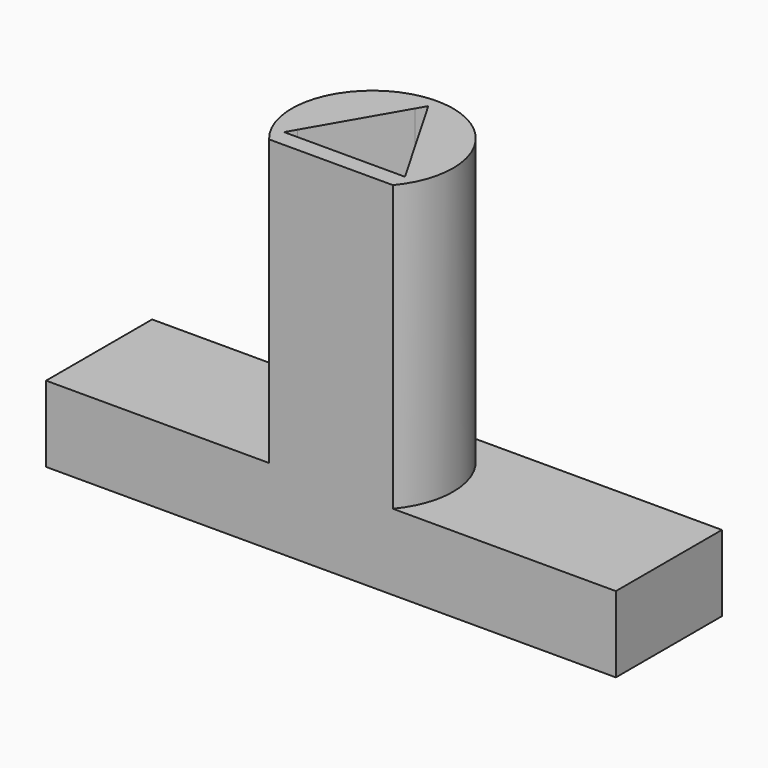
from build123d import *

# Parameters (mm, degrees)
F1_DEPTH = 20
F3_DEPTH = 10
F4_START = -10
F2_W     = 60
F2_H     = 13.958594691
F4_DEPTH = 8


with BuildPart() as f1:
    # F0 (on Top) → F1 (new body)
    with BuildSketch(Plane.XY):
        with BuildLine():
            ThreePointArc((-10.1912790055, 32.1777615839), (-15.0978885502, 29.0301175207), (-15.3705234986, 23.207046977))
            Line((-15.3705234986, 23.207046977), (-10.1912790055, 32.1777615839))
        make_face()
        with BuildLine():
            ThreePointArc((-3.2470355891, 25.8546910402), (-4.9020463007, 30.130483236), (-9.0044980948, 32.1777615839))
            Line((-9.0044980948, 32.1777615839), (-3.8252536017, 23.207046977))
            ThreePointArc((-3.8252536017, 23.207046977), (-3.3932737721, 24.4996675021), (-3.2470355891, 25.8546910402))
        make_face()
        with BuildLine():
            Line((-15.9639139539, 22.1792645596), (-15.3705234986, 23.207046977))
            ThreePointArc((-15.3705234986, 23.207046977), (-15.0978885502, 29.0301175207), (-10.1912790055, 32.1777615839))
            Line((-10.1912790055, 32.1777615839), (-9.5978885502, 33.2055440013))
            Line((-9.5978885502, 33.2055440013), (-9.0044980948, 32.1777615839))
            ThreePointArc((-9.0044980948, 32.1777615839), (-4.9020463007, 30.130483236), (-3.2470355891, 25.8546910402))
            ThreePointArc((-3.2470355891, 25.8546910402), (-3.3932737721, 24.4996675021), (-3.8252536017, 23.207046977))
            Line((-3.8252536017, 23.207046977), (-3.2318631464, 22.1792645596))
            Line((-3.2318631464, 22.1792645596), (-4.418644057, 22.1792645596))
            ThreePointArc((-4.418644057, 22.1792645596), (-5.2919075177, 21.1865157348), (-6.351802086, 20.3960963492))
            Line((-6.351802086, 20.3960963492), (-3.0822347841, 20.3960963492))
            ThreePointArc((-3.0822347841, 20.3960963492), (-1.6093637486, 22.9506470505), (-1.0978885502, 25.8546910402))
            ThreePointArc((-1.0978885502, 25.8546910402), (-12.5019325399, 33.8432158418), (-16.1135423163, 20.3960963492))
            Line((-16.1135423163, 20.3960963492), (-12.8439750143, 20.3960963492))
            ThreePointArc((-12.8439750143, 20.3960963492), (-13.9038695826, 21.1865157348), (-14.7771330433, 22.1792645596))
            Line((-14.7771330433, 22.1792645596), (-15.9639139539, 22.1792645596))
        make_face()
        with BuildLine():
            Line((-4.418644057, 22.1792645596), (-14.7771330433, 22.1792645596))
            ThreePointArc((-14.7771330433, 22.1792645596), (-13.9038695826, 21.1865157348), (-12.8439750143, 20.3960963492))
            Line((-12.8439750143, 20.3960963492), (-6.351802086, 20.3960963492))
            ThreePointArc((-6.351802086, 20.3960963492), (-5.2919075177, 21.1865157348), (-4.418644057, 22.1792645596))
        make_face()
    extrude(amount=F1_DEPTH)

    # F0 (on Top) → F3 (join)
    with BuildSketch(Plane.XY):
        with BuildLine():
            ThreePointArc((-10.1912790055, 32.1777615839), (-15.0978885502, 29.0301175207), (-15.3705234986, 23.207046977))
            Line((-15.3705234986, 23.207046977), (-10.1912790055, 32.1777615839))
        make_face()
        Polygon((-9.5978885502, 32.2055440013), (-15.0978885502, 22.6792645596), (-4.0978885502, 22.6792645596), align=None)
        with BuildLine():
            ThreePointArc((-10.1912790055, 32.1777615839), (-9.8949087916, 32.1985945947), (-9.5978885502, 32.2055440013))
            ThreePointArc((-9.5978885502, 32.2055440013), (-9.3008683088, 32.1985945947), (-9.0044980948, 32.1777615839))
            Line((-9.0044980948, 32.1777615839), (-9.5978885502, 33.2055440013))
            Line((-9.5978885502, 33.2055440013), (-10.1912790055, 32.1777615839))
        make_face()
        with BuildLine():
            ThreePointArc((-15.3705234986, 23.207046977), (-15.2403803083, 22.9399663374), (-15.0978885502, 22.6792645596))
            Line((-15.0978885502, 22.6792645596), (-9.5978885502, 32.2055440013))
            ThreePointArc((-9.5978885502, 32.2055440013), (-9.8949087916, 32.1985945947), (-10.1912790055, 32.1777615839))
            Line((-10.1912790055, 32.1777615839), (-15.3705234986, 23.207046977))
        make_face()
        with BuildLine():
            ThreePointArc((-14.7771330433, 22.1792645596), (-14.9433600669, 22.4255121884), (-15.0978885502, 22.6792645596))
            ThreePointArc((-15.0978885502, 22.6792645596), (-15.2403803083, 22.9399663374), (-15.3705234986, 23.207046977))
            Line((-15.3705234986, 23.207046977), (-15.9639139539, 22.1792645596))
            Line((-15.9639139539, 22.1792645596), (-14.7771330433, 22.1792645596))
        make_face()
        with BuildLine():
            Line((-15.9639139539, 22.1792645596), (-15.3705234986, 23.207046977))
            ThreePointArc((-15.3705234986, 23.207046977), (-15.0978885502, 29.0301175207), (-10.1912790055, 32.1777615839))
            Line((-10.1912790055, 32.1777615839), (-9.5978885502, 33.2055440013))
            Line((-9.5978885502, 33.2055440013), (-9.0044980948, 32.1777615839))
            ThreePointArc((-9.0044980948, 32.1777615839), (-4.9020463007, 30.130483236), (-3.2470355891, 25.8546910402))
            ThreePointArc((-3.2470355891, 25.8546910402), (-3.3932737721, 24.4996675021), (-3.8252536017, 23.207046977))
            Line((-3.8252536017, 23.207046977), (-3.2318631464, 22.1792645596))
            Line((-3.2318631464, 22.1792645596), (-4.418644057, 22.1792645596))
            ThreePointArc((-4.418644057, 22.1792645596), (-5.2919075177, 21.1865157348), (-6.351802086, 20.3960963492))
            Line((-6.351802086, 20.3960963492), (-3.0822347841, 20.3960963492))
            ThreePointArc((-3.0822347841, 20.3960963492), (-1.6093637486, 22.9506470505), (-1.0978885502, 25.8546910402))
            ThreePointArc((-1.0978885502, 25.8546910402), (-12.5019325399, 33.8432158418), (-16.1135423163, 20.3960963492))
            Line((-16.1135423163, 20.3960963492), (-12.8439750143, 20.3960963492))
            ThreePointArc((-12.8439750143, 20.3960963492), (-13.9038695826, 21.1865157348), (-14.7771330433, 22.1792645596))
            Line((-14.7771330433, 22.1792645596), (-15.9639139539, 22.1792645596))
        make_face()
        with BuildLine():
            Line((-4.418644057, 22.1792645596), (-14.7771330433, 22.1792645596))
            ThreePointArc((-14.7771330433, 22.1792645596), (-13.9038695826, 21.1865157348), (-12.8439750143, 20.3960963492))
            Line((-12.8439750143, 20.3960963492), (-6.351802086, 20.3960963492))
            ThreePointArc((-6.351802086, 20.3960963492), (-5.2919075177, 21.1865157348), (-4.418644057, 22.1792645596))
        make_face()
        with BuildLine():
            ThreePointArc((-3.2470355891, 25.8546910402), (-4.9020463007, 30.130483236), (-9.0044980948, 32.1777615839))
            Line((-9.0044980948, 32.1777615839), (-3.8252536017, 23.207046977))
            ThreePointArc((-3.8252536017, 23.207046977), (-3.3932737721, 24.4996675021), (-3.2470355891, 25.8546910402))
        make_face()
        with BuildLine():
            ThreePointArc((-9.0044980948, 32.1777615839), (-9.3008683088, 32.1985945947), (-9.5978885502, 32.2055440013))
            Line((-9.5978885502, 32.2055440013), (-4.0978885502, 22.6792645596))
            ThreePointArc((-4.0978885502, 22.6792645596), (-3.9553967921, 22.9399663374), (-3.8252536017, 23.207046977))
            Line((-3.8252536017, 23.207046977), (-9.0044980948, 32.1777615839))
        make_face()
        with BuildLine():
            Line((-4.0978885502, 22.6792645596), (-15.0978885502, 22.6792645596))
            ThreePointArc((-15.0978885502, 22.6792645596), (-14.9433600669, 22.4255121884), (-14.7771330433, 22.1792645596))
            Line((-14.7771330433, 22.1792645596), (-4.418644057, 22.1792645596))
            ThreePointArc((-4.418644057, 22.1792645596), (-4.2524170335, 22.4255121884), (-4.0978885502, 22.6792645596))
        make_face()
        with BuildLine():
            ThreePointArc((-3.8252536017, 23.207046977), (-3.9553967921, 22.9399663374), (-4.0978885502, 22.6792645596))
            ThreePointArc((-4.0978885502, 22.6792645596), (-4.2524170335, 22.4255121884), (-4.418644057, 22.1792645596))
            Line((-4.418644057, 22.1792645596), (-3.2318631464, 22.1792645596))
            Line((-3.2318631464, 22.1792645596), (-3.8252536017, 23.207046977))
        make_face()
    extrude(amount=-F3_DEPTH)

    # F2 (on Top) → F4 (join)
    with BuildSketch(Plane.XY.offset(F4_START)):
        with Locations((-9.5978885502, 27.3753936947)):
            Rectangle(F2_W, F2_H)
    extrude(amount=-F4_DEPTH)


solid = f1.part
